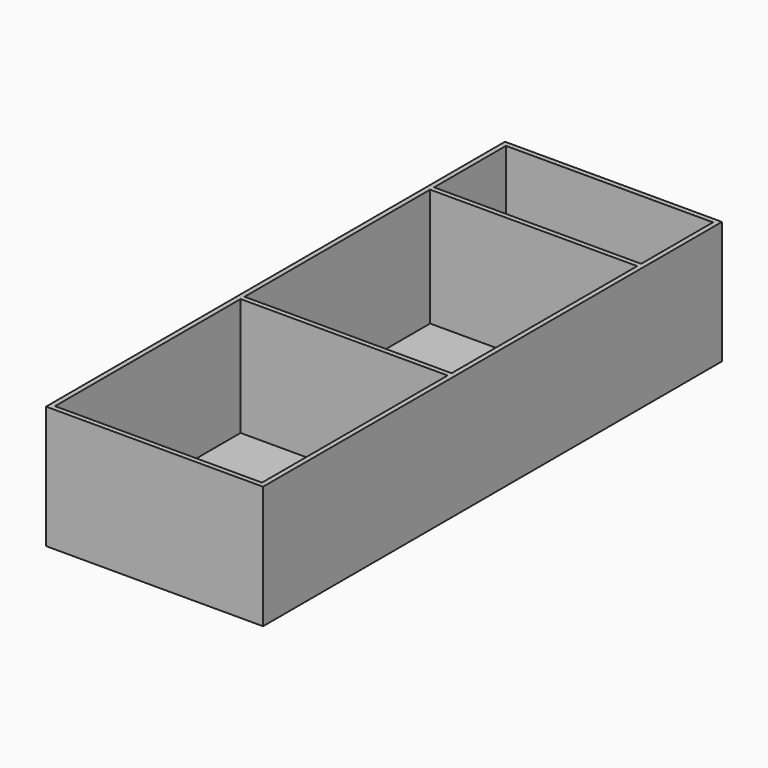
from build123d import *

# Parameters (mm, degrees)
F0_W     = 43.8
F0_H     = 115.8
F1_DEPTH = 24.8
F2_W     = 41.8
F2_H     = 18.133333
F2_H_2   = 46.833334
F2_H_3   = 46.833333
F3_DEPTH = 23.8


with BuildPart() as f1:
    # F0 (on Top) → F1 (new body)
    with BuildSketch(Plane.XY):
        with Locations((21.9, -57.9)):
            Rectangle(F0_W, F0_H)
    extrude(amount=F1_DEPTH)

    # F2 (on face) → F3 (cut)
    with BuildSketch(Plane.XY.offset(24.8)):
        with Locations((21.9, -10.066667)):
            Rectangle(F2_W, F2_H)
        with Locations((21.9, -43.55)):
            Rectangle(F2_W, F2_H_2)
        with Locations((21.9, -91.383333)):
            Rectangle(F2_W, F2_H_3)
    extrude(amount=-F3_DEPTH, mode=Mode.SUBTRACT)


solid = f1.part
